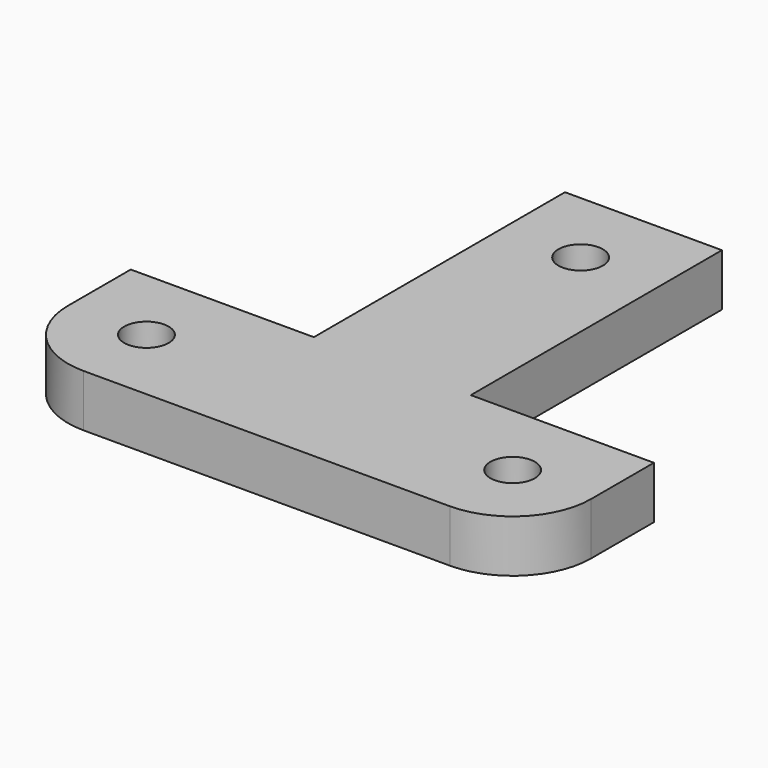
from build123d import *

# Parameters (mm, degrees)
F0_R     = 2.125
F1_DEPTH = 5
F2_R     = 7.5


with BuildPart() as f1:
    # F0 (on Top) → F1 (new body)
    with BuildSketch(Plane.XY):
        Polygon((7.5, 37.5), (0, 37.5), (-7.5, 37.5), (-7.5, 7.5), (-25, 7.5), (-25, 0), (-25, -7.5), (0, -7.5), (25, -7.5), (25, 0), (25, 7.5), (7.5, 7.5), align=None)
        with Locations((-17.5, 0)):
            Circle(F0_R, mode=Mode.SUBTRACT)
        with Locations((17.5, 0)):
            Circle(F0_R, mode=Mode.SUBTRACT)
        with Locations((0, 30)):
            Circle(F0_R, mode=Mode.SUBTRACT)
    extrude(amount=F1_DEPTH)

    # F2
    f2_edges = [f1.edges().sort_by_distance(p)[0] for p in [
        (-25, -7.5, 2.5),
        (25, -7.5, 2.5),
    ]]
    fillet(f2_edges, radius=F2_R)


solid = f1.part
